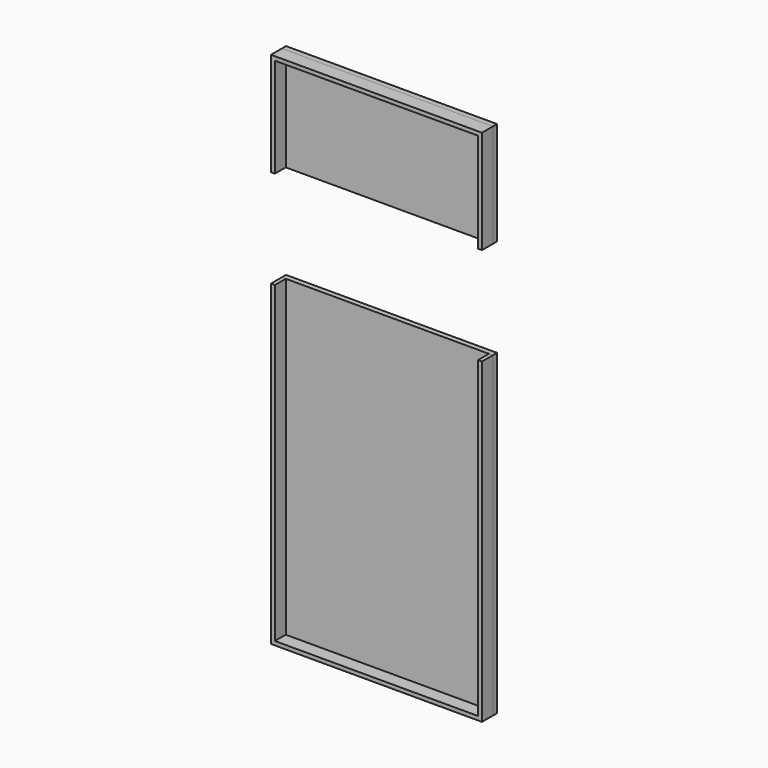
from build123d import *

# Parameters (mm, degrees)
F1_DEPTH = 7.2
F0_W     = 77.8
F0_H     = 120
F0_H_2   = 38.1
F2_DEPTH = 2


with BuildPart() as f1:
    # F0 (on Front) → F1 (new body)
    with BuildSketch(Plane.XZ):
        Polygon((38.9, 135.635824), (38.9, 97.535824), (40.4, 97.535824), (40.4, 137.135824), (-40.4, 137.135824), (-40.4, 97.535824), (-38.9, 97.535824), (-38.9, 135.635824), align=None)
        Polygon((38.9, 60), (38.9, -60), (-38.9, -60), (-38.9, 60), (-40.4, 60), (-40.4, -61.5), (40.4, -61.5), (40.4, 60), align=None)
    extrude(amount=F1_DEPTH)


with BuildPart() as f2:
    # F0 (on Front) → F2 (new body)
    with BuildSketch(Plane.XZ):
        Polygon((38.9, 60), (38.9, -60), (-38.9, -60), (-38.9, 60), (-40.4, 60), (-40.4, -61.5), (40.4, -61.5), (40.4, 60), align=None)
        Rectangle(F0_W, F0_H)
        with Locations((0, 116.585824)):
            Rectangle(F0_W, F0_H_2)
        Polygon((38.9, 135.635824), (38.9, 97.535824), (40.4, 97.535824), (40.4, 137.135824), (-40.4, 137.135824), (-40.4, 97.535824), (-38.9, 97.535824), (-38.9, 135.635824), align=None)
    extrude(amount=F2_DEPTH)


solid = Compound([f1.part, f2.part])
